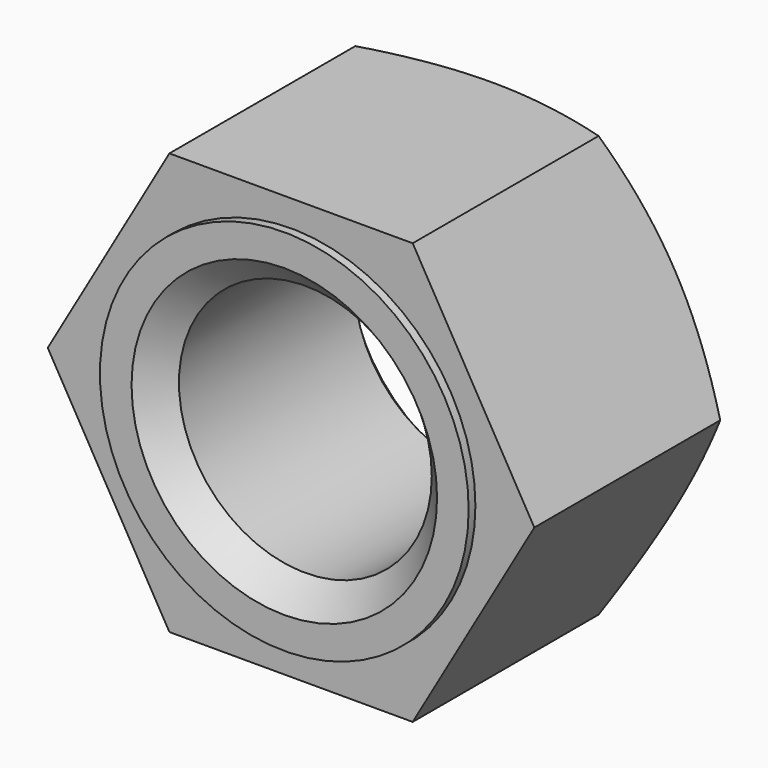
from build123d import *

# Parameters (mm, degrees)
F0_R     = 12
F1_DEPTH = 25
F4_R     = 17.5
F4_R_2   = 12
F5_DEPTH = 0.8
F6_SIZE  = 2.5


with BuildPart() as f1:
    # F0 (on Front) → F1 (new body)
    with BuildSketch(Plane.XZ):
        Polygon((11.547005, -20), (23.094011, 0), (11.547005, 20), (-11.547005, 20), (-23.094011, 0), (-11.547005, -20), align=None)
        Circle(F0_R, mode=Mode.SUBTRACT)
    extrude(amount=F1_DEPTH)

    # F2 (on Top) → F3 (revolve, cut)
    with BuildSketch(Plane.XY):
        Polygon((31.622065, 2.590499), (18, 0), (34.060234, -9.272381), align=None)
    revolve(axis=Axis((0, -9.323449, 0), (0, 1, 0)), mode=Mode.SUBTRACT)

    # F4 (on face) → F5 (join)
    with BuildSketch(Plane.XZ.offset(25)):
        Circle(F4_R)
        Circle(F4_R_2, mode=Mode.SUBTRACT)
    extrude(amount=F5_DEPTH)

    # F6
    f6_edges = [f1.edges().sort_by_distance(p)[0] for p in [
        (-12, -25.8, 0),
        (-12, 0, 0),
    ]]
    chamfer(f6_edges, length=F6_SIZE)


solid = f1.part
